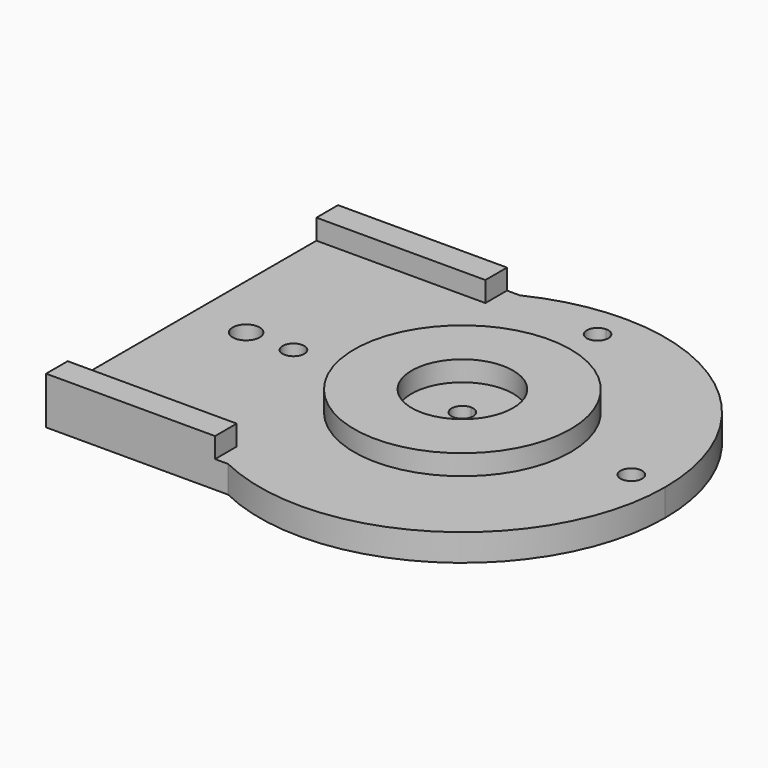
from build123d import *

# Parameters (mm, degrees)
F0_R     = 1.6
F1_DEPTH = 4
F2_R     = 16
F2_R_2   = 7.5
F2_W     = 25
F2_H     = 4
F3_DEPTH = 3


with BuildPart() as f1:
    # F0 (on Top) → F1 (new body)
    with BuildSketch(Plane.XY):
        with BuildLine():
            ThreePointArc((0, 1.6), (1.1313708499, 1.1313708499), (1.6, 0))
            ThreePointArc((1.6, 0), (1.1313708499, -1.1313708499), (0, -1.6))
            Line((0, -1.6), (0, -27))
            Line((0, -27), (-13.0766968306, -27))
            ThreePointArc((-13.0766968306, -27), (15.9326566379, -25.4194896184), (30, 0))
            ThreePointArc((30, 0), (15.9326566379, 25.4194896184), (-13.0766968306, 27))
            Line((-13.0766968306, 27), (0, 27))
            Line((0, 27), (0, 26.6))
            ThreePointArc((0, 26.6), (1.1313708499, 26.1313708499), (1.6, 25))
            ThreePointArc((1.6, 25), (1.1313708499, 23.8686291501), (0, 23.4))
            Line((0, 23.4), (0, 1.6))
        make_face()
        with Locations((25, 0)):
            Circle(F0_R, mode=Mode.SUBTRACT)
        with BuildLine():
            ThreePointArc((0, -1.6), (-1.6, 0), (0, 1.6))
            Line((0, 1.6), (0, 23.4))
            ThreePointArc((0, 23.4), (-1.6, 25), (0, 26.6))
            Line((0, 26.6), (0, 27))
            Line((0, 27), (-13.0766968306, 27))
            ThreePointArc((-13.0766968306, 27), (-25.4194896184, 15.9326566379), (-30, 0))
            ThreePointArc((-30, 0), (-25.4194896184, -15.9326566379), (-13.0766968306, -27))
            Line((-13.0766968306, -27), (0, -27))
            Line((0, -27), (0, -1.6))
        make_face()
        with Locations((-25, 0)):
            Circle(F0_R, mode=Mode.SUBTRACT)
        with BuildLine():
            Line((-40, -27), (-13.0766968306, -27))
            ThreePointArc((-13.0766968306, -27), (-25.4194896184, -15.9326566379), (-30, 0))
            ThreePointArc((-30, 0), (-32, -2), (-34, 0))
            Line((-34, 0), (-40, 0))
            Line((-40, 0), (-40, -27))
        make_face()
        with BuildLine():
            ThreePointArc((-34, 0), (-32, 2), (-30, 0))
            ThreePointArc((-30, 0), (-25.4194896184, 15.9326566379), (-13.0766968306, 27))
            Line((-13.0766968306, 27), (-40, 27))
            Line((-40, 27), (-40, 0))
            Line((-40, 0), (-34, 0))
        make_face()
    extrude(amount=-F1_DEPTH)

    # F2 (on Top) → F3 (join)
    with BuildSketch(Plane.XY):
        Circle(F2_R)
        Circle(F2_R_2, mode=Mode.SUBTRACT)
        with Locations((-27.5, -25)):
            Rectangle(F2_W, F2_H)
        with Locations((-27.5, 25)):
            Rectangle(F2_W, F2_H)
    extrude(amount=F3_DEPTH)


solid = f1.part
